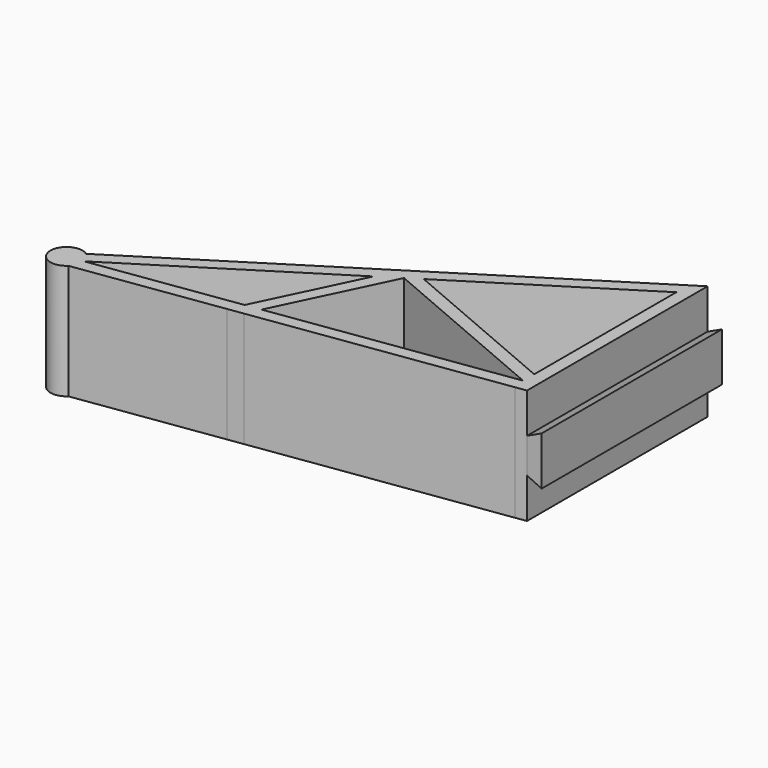
from build123d import *

# Parameters (mm, degrees)
F1_DEPTH      = 18
F3_DEPTH      = 1.7
F3_DEPTH_BACK = 33.6


with BuildPart() as f1:
    # F0 (on Top) → F1 (new body)
    with BuildSketch(Plane.XY):
        Polygon((-0.254882, 32.203108), (0, 30), (2, 31.259688), (2, 33.623332), align=None)
        Polygon((-26.306042, 13.431302), (0, 30), (-0.254882, 32.203108), (-28.540687, 14.387469), (-27.575941, 13.974671), align=None)
        Polygon((0, 30), (0, 2.175393), (1.445557, 1.556864), (2, 1.319627), (2, 31.259688), align=None)
        Polygon((0, 2.175393), (0, 0), (0.284296, -1.979691), (2, -1.733301), (2, 1.319627), (1.445557, 1.556864), align=None)
        Polygon((0.284296, -1.979691), (0, 0), (-36.743275, -5.276639), (-37.787943, -7.44718), align=None)
        Polygon((-28.362711, 12.135923), (0, 0), (0, 2.175393), (-26.306042, 13.431302), align=None)
        Polygon((-31.54784, 10.129788), (-28.362711, 12.135923), (-26.306042, 13.431302), (-27.575941, 13.974671), (-28.540687, 14.387469), (-30.453318, 13.182811), (-31.415666, 10.404412), align=None)
        Polygon((-39.127668, -5.619058), (-36.743275, -5.276639), (-28.362711, 12.135923), (-31.54784, 10.129788), align=None)
        with BuildLine():
            Line((-61.698498, -8.860416), (-31.54784, 10.129788))
            Line((-31.54784, 10.129788), (-31.415666, 10.404412))
            Line((-31.415666, 10.404412), (-30.453318, 13.182811))
            Line((-30.453318, 13.182811), (-62.726457, -7.144226))
            ThreePointArc((-62.726457, -7.144226), (-62.033334, -7.895018), (-61.698498, -8.860416))
        make_face()
        with BuildLine():
            Line((-40.172337, -7.789599), (-39.127668, -5.619058))
            Line((-39.127668, -5.619058), (-61.698498, -8.860416))
            ThreePointArc((-61.698498, -8.860416), (-61.683155, -9.019703), (-61.678033, -9.179644))
            ThreePointArc((-61.678033, -9.179644), (-61.879978, -10.163993), (-62.453187, -10.989314))
            Line((-62.453187, -10.989314), (-40.172337, -7.789599))
        make_face()
        Polygon((-37.787943, -7.44718), (-36.743275, -5.276639), (-39.127668, -5.619058), (-40.172337, -7.789599), align=None)
        with BuildLine():
            ThreePointArc((-61.678033, -9.179644), (-61.683155, -9.019703), (-61.698498, -8.860416))
            ThreePointArc((-61.698498, -8.860416), (-62.033334, -7.895018), (-62.726457, -7.144226))
            ThreePointArc((-62.726457, -7.144226), (-66.671744, -9.356872), (-62.453187, -10.989314))
            ThreePointArc((-62.453187, -10.989314), (-61.879978, -10.163993), (-61.678033, -9.179644))
        make_face()
    extrude(amount=F1_DEPTH)

    # F2 (on Front) → F3 (join, two sides)
    with BuildSketch(Plane.XZ) as f3_sk:
        Polygon((4.265769, 12.806546), (2, 11.75), (2, 6.25), (4.265769, 5.193454), align=None)
    extrude(amount=F3_DEPTH)
    extrude(f3_sk.sketch, amount=-F3_DEPTH_BACK)


solid = f1.part
